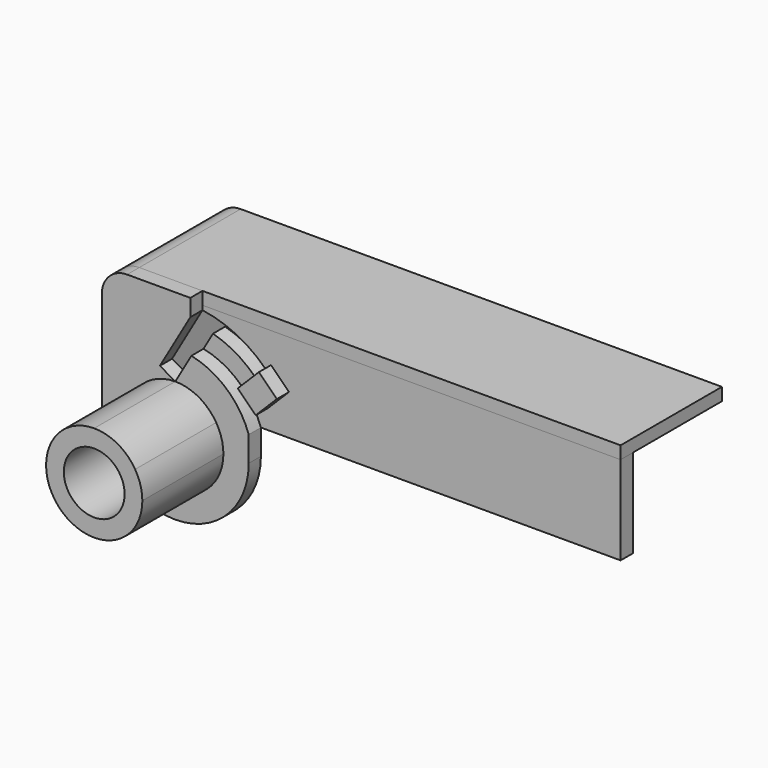
from build123d import *

# Parameters (mm, degrees)
F0_R     = 6
F1_DEPTH = 20
F2_DEPTH = 3
F3_DEPTH = 3
F4_DEPTH = 3
F6_DEPTH = 3
F5_W     = 82.5310889132
F5_H     = 2.5
F7_DEPTH = 25
F8_DEPTH = 3


with BuildPart() as f1:
    # F0 (on Front) → F1 (new body)
    with BuildSketch(Plane.XZ):
        with BuildLine():
            ThreePointArc((-9.5, 0), (0, -9.5), (9.5, 0))
            ThreePointArc((9.5, 0), (9.1375215048, 2.5991730895), (8.0777472107, 5))
            ThreePointArc((8.0777472107, 5), (4.6233105022, 8.2990963363), (0, 9.5))
            ThreePointArc((0, 9.5), (-6.7175144213, 6.7175144213), (-9.5, 0))
        make_face()
        Circle(F0_R, mode=Mode.SUBTRACT)
    extrude(amount=F1_DEPTH)


with BuildPart() as f2:
    # F0 (on Front) → F2 (new body)
    with BuildSketch(Plane.XZ):
        with BuildLine():
            ThreePointArc((0, 9.5), (4.6233105022, 8.2990963363), (8.0777472107, 5))
            Line((8.0777472107, 5), (14.5, 5))
            ThreePointArc((14.5, 5), (10.1565341451, 11.493250809), (3.17828409, 15.0049495248))
            Line((3.17828409, 15.0049495248), (0, 9.5))
        make_face()
        with BuildLine():
            ThreePointArc((8.0777472107, 5), (9.1375215048, 2.5991730895), (9.5, 0))
            ThreePointArc((9.5, 0), (0, -9.5), (-9.5, 0))
            Line((-9.5, 0), (-14.5, 0))
            ThreePointArc((-14.5, 0), (0, -14.5), (14.5, 0))
            Line((14.5, 0), (14.5, 5))
            Line((14.5, 5), (8.0777472107, 5))
        make_face()
    extrude(amount=-F2_DEPTH)


with BuildPart() as f3:
    # F0 (on Front) → F3 (new body)
    with BuildSketch(Plane.XZ):
        with BuildLine():
            Line((-14.5, 0), (-9.5, 0))
            ThreePointArc((-9.5, 0), (-6.7175144213, 6.7175144213), (0, 9.5))
            Line((0, 9.5), (-3.0310889132, 11.25))
            Line((-3.0310889132, 11.25), (2.9689110868, 21.6423048454))
            Line((2.9689110868, 21.6423048454), (2.9689110868, 25))
            Line((2.9689110868, 25), (-9.5, 25))
            ThreePointArc((-9.5, 25), (-13.0355339059, 23.5355339059), (-14.5, 20))
            Line((-14.5, 20), (-14.5, 0))
        make_face()
    extrude(amount=-F3_DEPTH)


with BuildPart() as f4:
    # F0 (on Front) → F4 (new body, through all)
    with BuildSketch(Plane.XZ):
        Polygon((16.5074040368, 16.5074040368), (15.446743865, 15.446743865), (13.3841301067, 13.3841301067), (12.3234699349, 12.3234699349), (15.8590038409, 8.787936029), (20.0429379427, 12.9718701309), align=None)
    extrude(amount=-F4_DEPTH)


with BuildPart() as f6:
    # F5 (on face) → F6 (new body)
    with BuildSketch(Plane(origin=(0, 3, 0), x_dir=(-1, 0, 0), z_dir=(0, 1, 0))):
        with BuildLine():
            ThreePointArc((-14.5, 5), (-10.1565341451, 11.493250809), (-3.17828409, 15.0049495248))
            Line((-3.17828409, 15.0049495248), (-5.0475388851, 18.2425938021))
            ThreePointArc((-5.0475388851, 18.2425938021), (-9.5306228981, 16.3535043523), (-13.3841301067, 13.3841301067))
            Line((-13.3841301067, 13.3841301067), (-12.3234699349, 12.3234699349))
            Line((-12.3234699349, 12.3234699349), (-15.8590038409, 8.787936029))
            Line((-15.8590038409, 8.787936029), (-20.0429379427, 12.9718701309))
            Line((-20.0429379427, 12.9718701309), (-16.5074040368, 16.5074040368))
            Line((-16.5074040368, 16.5074040368), (-15.446743865, 15.446743865))
            ThreePointArc((-15.446743865, 15.446743865), (-9.7149539778, 19.5658749171), (-2.9689110868, 21.6423048454))
            Line((-2.9689110868, 21.6423048454), (-2.9689110868, 22.5))
            Line((-2.9689110868, 22.5), (-85.5, 22.5))
            Line((-85.5, 22.5), (-85.5, 5))
            Line((-85.5, 5), (-14.5, 5))
        make_face()
    extrude(amount=F6_DEPTH)


with BuildPart() as f7:
    # F5 (on face) → F7 (new body)
    with BuildSketch(Plane(origin=(0, 3, 0), x_dir=(-1, 0, 0), z_dir=(0, 1, 0))):
        with Locations((-44.2344555434, 23.75)):
            Rectangle(F5_W, F5_H)
        with BuildLine():
            Line((-2.9689110868, 25), (-2.9689110868, 22.5))
            Line((-2.9689110868, 22.5), (9.5, 22.5))
            ThreePointArc((9.5, 22.5), (11.267766953, 21.767766953), (12, 20))
            Line((12, 20), (12, 0))
            Line((12, 0), (14.5, 0))
            Line((14.5, 0), (14.5, 20))
            ThreePointArc((14.5, 20), (13.0355339059, 23.5355339059), (9.5, 25))
            Line((9.5, 25), (-2.9689110868, 25))
        make_face()
    extrude(amount=F7_DEPTH)


with BuildPart() as f8:
    # F8 (new, through all): a face of the model
    f8_faces = [f4.part.faces().sort_by_distance(p)[0] for p in [
        (16.1832039388, 3, 12.6476700329),
    ]]
    extrude(f8_faces, amount=F8_DEPTH)


solid = Compound([f1.part, f2.part, f3.part, f4.part, f6.part, f7.part, f8.part])
